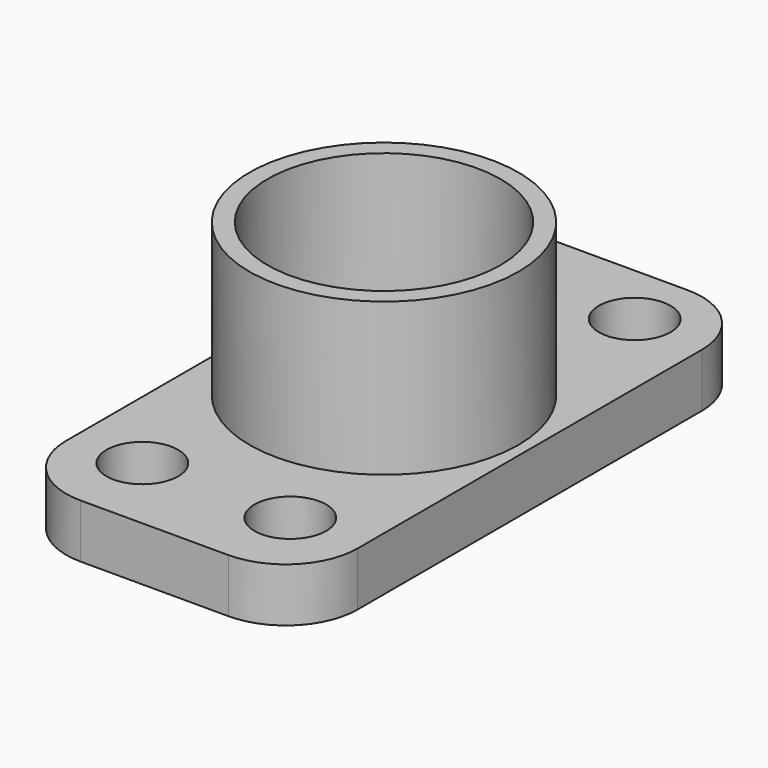
from build123d import *

# Parameters (mm, degrees)
F0_W     = 65
F0_H     = 128
F0_R     = 8
F1_DEPTH = 12
F2_R     = 16
F3_R     = 30
F3_R_2   = 26
F4_DEPTH = 46


with BuildPart() as f1:
    # F0 (on Top) → F1 (new body)
    with BuildSketch(Plane.XY):
        with Locations((-2.270288, 12.264718)):
            Rectangle(F0_W, F0_H)
        with Locations((-19.155467, -33.992235)):
            Circle(F0_R, mode=Mode.SUBTRACT)
        with Locations((13.844533, -33.992235)):
            Circle(F0_R, mode=Mode.SUBTRACT)
        with Locations((-19.155467, 62.007765)):
            Circle(F0_R, mode=Mode.SUBTRACT)
        with Locations((13.844533, 62.007765)):
            Circle(F0_R, mode=Mode.SUBTRACT)
    extrude(amount=F1_DEPTH)

    # F2
    f2_edges = [f1.edges().sort_by_distance(p)[0] for p in [
        (30.229712, -51.735282, 6),
        (-34.770288, -51.735282, 6),
        (-34.770288, 76.264718, 6),
        (30.229712, 76.264718, 6),
    ]]
    fillet(f2_edges, radius=F2_R)

    # F3 (on Top) → F4 (join)
    with BuildSketch(Plane.XY):
        with Locations((-2.270288, 12.264718)):
            Circle(F3_R)
        with Locations((-2.270288, 12.264718)):
            Circle(F3_R_2, mode=Mode.SUBTRACT)
    extrude(amount=F4_DEPTH)


solid = f1.part
